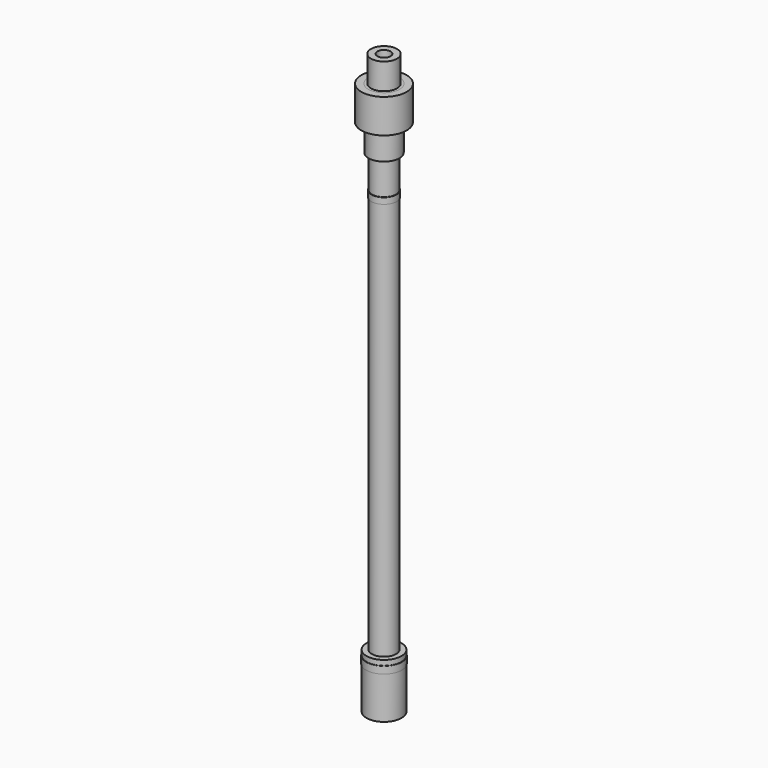
from build123d import *

# Parameters (mm, degrees)
F2_W     = 1.625
F2_H     = 14
F4_DEPTH = 12.7


with BuildPart() as f1:
    # F0 (on Front) → F1 (revolve)
    with BuildSketch(Plane.XZ):
        Polygon((-8.5, 0), (-2.78, 0), (-2.78, 264.16), (-5.55625, 264.16), (-5.55625, 249), (-6.1, 249), (-6.1, 244), (-5.875, 244), (-5.875, 223), (-6.1, 223), (-6.1, 220), (-5.875, 220), (-5.875, 26.5), (-8.5, 26.5), (-8.5, 24), (-8.65, 24), (-8.65, 20.5), (-8.5, 20.5), align=None)
    revolve(axis=Axis((0, 0, 132.08), (0, 0, -1)))


with BuildPart() as f3:
    # F2 (on Front) → F3 (revolve)
    with BuildSketch(Plane.XZ):
        with Locations((-10.1875, 259)):
            Rectangle(F2_W, F2_H)
        Polygon((-7.5, 239), (-6.25, 239), (-6.25, 255.8), (-7.62, 255.8), (-7.62, 268.5), (-11, 268.5), (-11, 266), (-9.375, 266), (-9.375, 252), (-7.5, 252), align=None)
    revolve(axis=Axis((0, 0, 253.75), (0, 0, -1)))

    # F2 (on Front) → F4 (cut, symmetric)
    with BuildSketch(Plane.XZ):
        with Locations((-10.1875, 259)):
            Rectangle(F2_W, F2_H)
    extrude(amount=F4_DEPTH, both=True, mode=Mode.SUBTRACT)


with BuildPart() as f6:
    # F5 (on Front) → F6 (revolve)
    with BuildSketch(Plane.XZ):
        Polygon((-7.62, 255.8), (-5.55625, 255.8), (-5.55625, 264.16), (-3.175, 265.5907993491), (-3.175, 281.2), (-6.35, 281.2), (-6.35, 268.5), (-7.62, 268.5), align=None)
    revolve(axis=Axis((0, 0, 268.5), (0, 0, -1)))


solid = Compound([f1.part, f3.part, f6.part])
